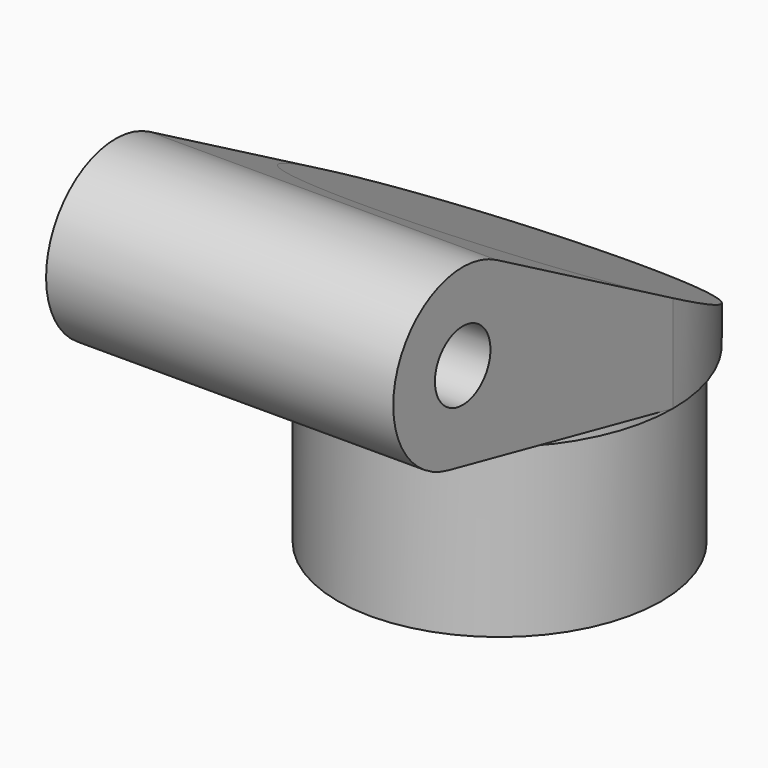
from build123d import *

# Parameters (mm, degrees)
SKETCH002_R  = 13.975
PAD002_DEPTH = 15
SKETCH003_R  = 15
PAD003_DEPTH = 25
SKETCH004_R  = 3
PAD004_DEPTH = 15
BOX_W        = 44
BOX_H        = 61
BOX_DEPTH    = 44


with BuildPart() as part:
    # Sketch002 (on DatumPlane) → Pad002 (new body)
    with BuildSketch(Plane.XY.offset(73)):
        Circle(SKETCH002_R)
    extrude(amount=-PAD002_DEPTH)

    # Sketch003 (on DatumPlane) → Pad003 (join)
    with BuildSketch(Plane.XY.offset(73)):
        Circle(SKETCH003_R)
    extrude(amount=PAD003_DEPTH)

    # Sketch004 (on DatumPlane) → Pad004 (join, symmetric)
    with BuildSketch(Plane(origin=(0, 0, 85.5), x_dir=(0, 0, -1), z_dir=(1, 0, 0))):
        with BuildLine():
            ThreePointArc((-6.5469509024, -19.0812783951), (-2.6386229499, -29.760680346), (7.3361760867, -24.2991752795))
            Line((7.3361760867, -24.2991752795), (12.5, 0))
            Line((4.1169733945, 0), (12.5, 0))
            Line((-6.5469509024, -19.0812783951), (4.1169733945, 0))
        make_face()
        with Locations((0, -22.7401626351)):
            Circle(SKETCH004_R, mode=Mode.SUBTRACT)
    extrude(amount=PAD004_DEPTH, both=True)

    # Box → Box (cut)
    with BuildSketch(Plane(origin=(-23, -30.474162324, 98.414074175), x_dir=(1, 0, 0), z_dir=(0, 0.487851232, 0.872926787))):
        with Locations((22, 30.5)):
            Rectangle(BOX_W, BOX_H)
    extrude(amount=BOX_DEPTH, mode=Mode.SUBTRACT)


solid = part.part
